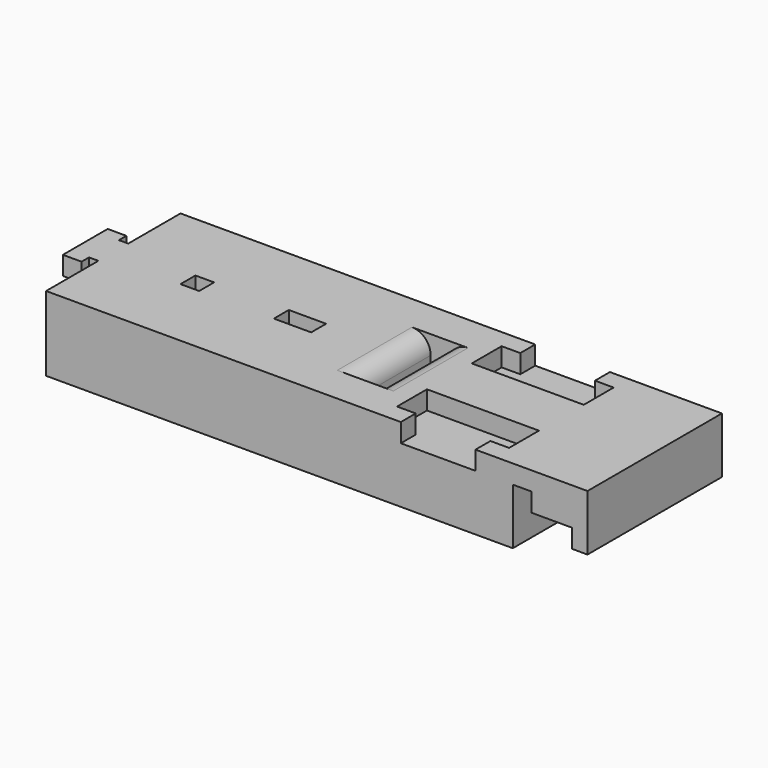
from build123d import *

# Parameters (mm, degrees)
F0_W     = 5
F0_H     = 5
F0_W_2   = 10
F1_DEPTH = 20
F2_DEPTH = 10
F3_R     = 5
F5_DEPTH = 5
F7_DEPTH = 50
F9_DEPTH = 5


with BuildPart() as f1:
    # F0 (on Top) → F1 (new body)
    with BuildSketch(Plane.XY):
        Polygon((-46.9086258113, 17.5), (-46.9086258113, 0), (98.0913741887, 0), (98.0913741887, 45), (-46.9086258113, 45), (-46.9086258113, 27.5), align=None)
        with Locations((-24.4086258113, 22.5)):
            Rectangle(F0_W, F0_H, mode=Mode.SUBTRACT)
        with Locations((3.0913741887, 22.5)):
            Rectangle(F0_W_2, F0_H, mode=Mode.SUBTRACT)
        Polygon((28.0913741887, 10), (28.0913741887, 25), (28.0913741887, 35), (33.0913741887, 35), (33.0913741887, 10), align=None, mode=Mode.SUBTRACT)
    extrude(amount=F1_DEPTH)

    # F0 (on Top) → F2 (join)
    with BuildSketch(Plane.XY):
        with Locations((-24.4086258113, 22.5)):
            Rectangle(F0_W, F0_H)
        with Locations((3.0913741887, 22.5)):
            Rectangle(F0_W_2, F0_H)
    extrude(amount=F2_DEPTH)

    # F3
    f3_edges = [f1.edges().sort_by_distance(p)[0] for p in [
        (33.091374, 22.5, 20),
        (28.091374, 22.5, 20),
        (28.091374, 22.5, 0),
        (33.091374, 22.5, 0),
    ]]
    fillet(f3_edges, radius=F3_R)

    # F4 (on face) → F5 (join)
    with BuildSketch(Plane.XY.offset(20)):
        Polygon((-46.9086258113, 17.5), (-46.9086258113, 27.5), (-49.4086258113, 27.5), (-49.4086258113, 30), (-54.4086258113, 30), (-54.4086258113, 15), (-49.4086258113, 15), (-49.4086258113, 17.5), align=None)
    extrude(amount=-F5_DEPTH)

    # F6 (on face) → F7 (cut)
    with BuildSketch(Plane.XZ):
        Polygon((93.9913741887, 10), (83.0913741887, 10), (83.0913741887, 15), (78.0913741887, 15), (78.0913741887, 0), (98.0913741887, 0), (98.0913741887, 5.01), (93.9913741887, 5.01), align=None)
    extrude(amount=-F7_DEPTH, mode=Mode.SUBTRACT)

    # F8 (on face) → F9 (cut)
    with BuildSketch(Plane.XY.offset(20)):
        Polygon((48.0913741887, 0), (68.0913741887, 0), (68.0913741887, 5), (73.0913741887, 5), (73.0913741887, 15), (43.0913741887, 15), (43.0913741887, 5), (48.0913741887, 5), align=None)
        Polygon((68.0913741887, 40), (68.0913741887, 45), (48.0913741887, 45), (48.0913741887, 40), (43.0913741887, 40), (43.0913741887, 30), (73.0913741887, 30), (73.0913741887, 40), align=None)
    extrude(amount=-F9_DEPTH, mode=Mode.SUBTRACT)


solid = f1.part
